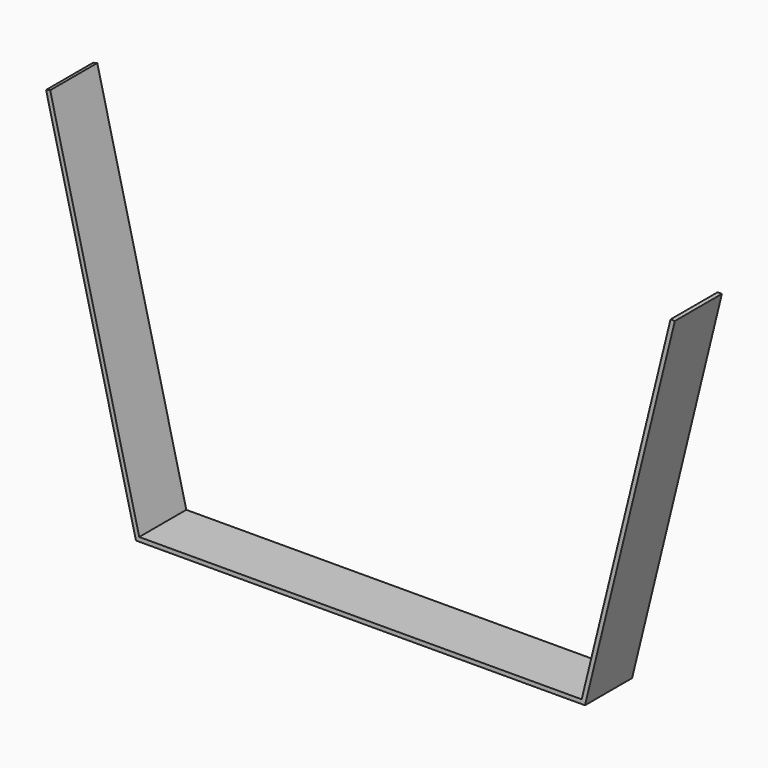
from build123d import *

# Parameters (mm, degrees)
F0_W     = 540
F0_H     = 390
F1_DEPTH = 10
F3_DEPTH = 70
F4_DEPTH = 25


with BuildPart() as f1:
    # F0 (on Front) → F1 (new body)
    with BuildSketch(Plane.XZ):
        Polygon((-575.5810141563, 243.9473703504), (-465.5810141563, -206.0526296496), (133.660423523, -206.0526296496), (243.660423523, 243.9473703504), (133.660423523, 243.9473703504), (-465.5810141563, 243.9473703504), align=None)
        with Locations((-166.339576477, 18.9473703504)):
            Rectangle(F0_W, F0_H, mode=Mode.SUBTRACT)
        Polygon((-495.5810141563, 43.0153865893), (-537.3643879646, 213.9473703504), (-495.5810141563, 213.9473703504), align=None, mode=Mode.SUBTRACT)
        Polygon((163.660423523, 213.9473703504), (205.4437973313, 213.9473703504), (163.660423523, 43.0153865893), align=None, mode=Mode.SUBTRACT)
    extrude(amount=F1_DEPTH)

    # F4 (cut): a face of the model
    f4_faces = [f1.faces().sort_by_distance(p)[0] for p in [
        (-511.5013869102, -10, 21.1668347883),
    ]]
    extrude(f4_faces, amount=-F4_DEPTH, mode=Mode.SUBTRACT)


with BuildPart() as f3:
    # F2 (on face) → F3 (new body)
    with BuildSketch(Plane.XZ.offset(10)):
        Polygon((-475.5810141563, -206.0526296496), (-534.9442867756, 36.7971219746), (-539.8012818081, 35.6098565222), (-432.9473910934, -401.5196964014), (101.1698054276, -400.332430949), (208.0236961423, 36.7971219746), (203.0236961423, 36.7971219746), (202.8764806659, 36.7971219746), (97.2426813323, -395.3411480265), (-429.0245324018, -396.5109640999), align=None)
    extrude(amount=F3_DEPTH)


solid = f3.part
